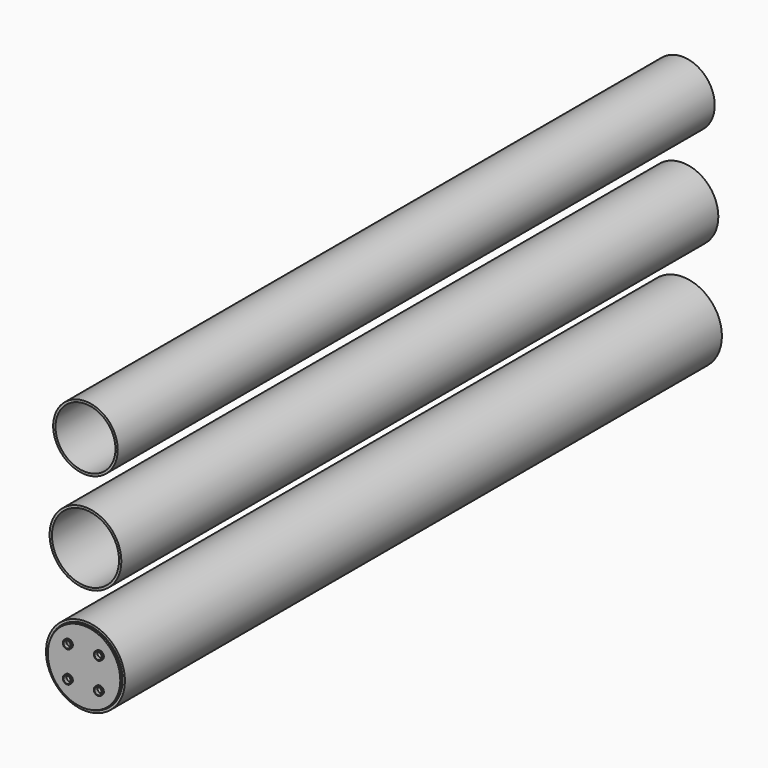
from build123d import *

# Parameters (mm, degrees)
F0_R     = 28.575
F0_R_2   = 26.543
F0_R_3   = 31.75
F0_R_4   = 29.718
F0_R_5   = 34.925
F0_R_6   = 32.893
F1_DEPTH = 660.4
F2_R     = 32.09925
F3_DEPTH = 1.5875
F4_R     = 3.81
F4_R_2   = 3.175
F5_DEPTH = 1.5875
F6_DEPTH = 661.9885


with BuildPart() as f1:
    # F0 (on Front) → F1 (new body)
    with BuildSketch(Plane.XZ):
        with Locations((0, 177.8)):
            Circle(F0_R)
        with Locations((0, 177.8)):
            Circle(F0_R_2, mode=Mode.SUBTRACT)
        with Locations((0, 92.075)):
            Circle(F0_R_3)
        with Locations((0, 92.075)):
            Circle(F0_R_4, mode=Mode.SUBTRACT)
        Circle(F0_R_5)
        Circle(F0_R_6, mode=Mode.SUBTRACT)
    extrude(amount=F1_DEPTH)


with BuildPart() as f3:
    # F2 (on face) → F3 (new body)
    with BuildSketch(Plane.XZ.offset(660.4)):
        Circle(F2_R)
    extrude(amount=F3_DEPTH)

    # F4 (on face) → F5 (join)
    with BuildSketch(Plane.XZ.offset(661.9875)):
        with Locations((-13.717341, 13.717341)):
            Circle(F4_R)
        with Locations((-13.717341, 13.717341)):
            Circle(F4_R_2, mode=Mode.SUBTRACT)
        with Locations((13.717341, 13.717341)):
            Circle(F4_R)
        with Locations((13.717341, 13.717341)):
            Circle(F4_R_2, mode=Mode.SUBTRACT)
        with Locations((13.717341, -13.717341)):
            Circle(F4_R)
        with Locations((13.717341, -13.717341)):
            Circle(F4_R_2, mode=Mode.SUBTRACT)
        with Locations((-13.717341, -13.717341)):
            Circle(F4_R)
        with Locations((-13.717341, -13.717341)):
            Circle(F4_R_2, mode=Mode.SUBTRACT)
    extrude(amount=F5_DEPTH)

    # F4 (on face) → F6 (cut, through all)
    with BuildSketch(Plane.XZ.offset(661.9875)):
        with Locations((-13.717341, 13.717341)):
            Circle(F4_R_2)
        with Locations((13.717341, 13.717341)):
            Circle(F4_R_2)
        with Locations((13.717341, -13.717341)):
            Circle(F4_R_2)
        with Locations((-13.717341, -13.717341)):
            Circle(F4_R_2)
    extrude(amount=-F6_DEPTH, mode=Mode.SUBTRACT)


solid = Compound([f1.part, f3.part])
